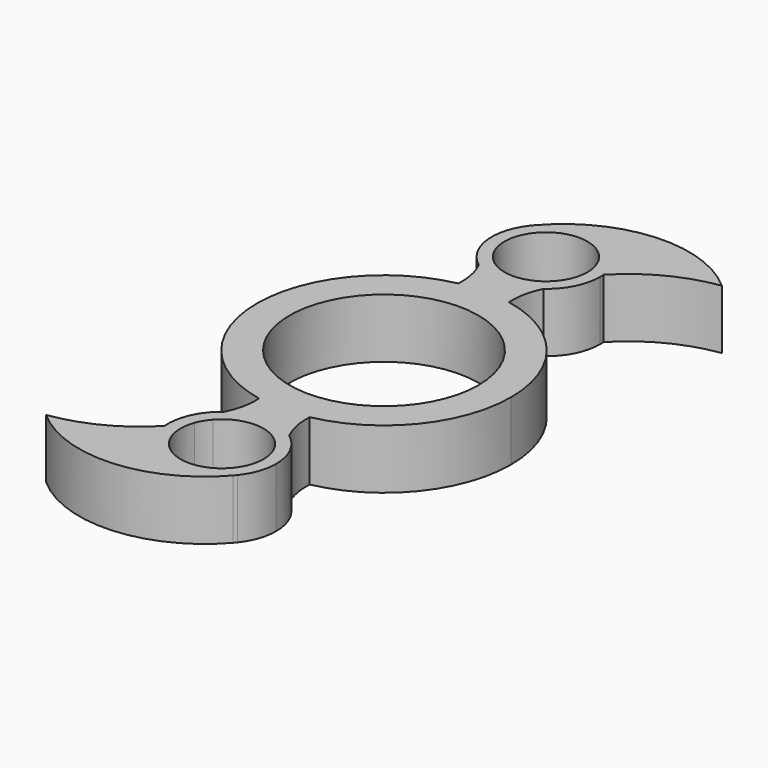
from build123d import *

# Parameters (mm, degrees)
F0_R     = 11.15
F1_DEPTH = 7


with BuildPart() as f1:
    # F0 (on Top) → F1 (new body)
    with BuildSketch(Plane.XY):
        with BuildLine():
            ThreePointArc((2.9876507344, -14.6994538364), (11.6149636464, -9.4917132011), (15, 0))
            ThreePointArc((15, 0), (11.6149636464, 9.4917132011), (2.9876507344, 14.6994538364))
            ThreePointArc((2.9876507344, 14.6994538364), (0, 15), (-2.9876507344, 14.6994538364))
            ThreePointArc((-2.9876507344, 14.6994538364), (-15, 0), (-2.9876507344, -14.6994538364))
            ThreePointArc((-2.9876507344, -14.6994538364), (0, -15), (2.9876507344, -14.6994538364))
        make_face()
        Circle(F0_R, mode=Mode.SUBTRACT)
        with BuildLine():
            ThreePointArc((-2.9876507344, 14.6994538364), (0, 15), (2.9876507344, 14.6994538364))
            ThreePointArc((2.9876507344, 14.6994538364), (3.1347863411, 16.7892463046), (3.8235944887, 18.7677368359))
            ThreePointArc((3.8235944887, 18.7677368359), (0, 17.5), (-3.8235944887, 18.7677368359))
            ThreePointArc((-3.8235944887, 18.7677368359), (-3.1347863411, 16.7892463046), (-2.9876507344, 14.6994538364))
        make_face()
        with BuildLine():
            ThreePointArc((-3.8235944887, 18.7677368359), (0, 17.5), (3.8235944887, 18.7677368359))
            ThreePointArc((3.8235944887, 18.7677368359), (5.7197467045, 21.0286766751), (6.4, 23.9))
            ThreePointArc((6.4, 23.9), (6.3946816035, 24.1608585632), (6.3787352531, 24.4212835797))
            ThreePointArc((6.3787352531, 24.4212835797), (2.0579890202, 29.9600892067), (-4.7421524338, 28.197905338))
            ThreePointArc((-4.7421524338, 28.197905338), (-4.8788151134, 28.0391092422), (-5.0132186413, 27.878396518))
            ThreePointArc((-5.0132186413, 27.878396518), (-6.3461284682, 23.0713544393), (-3.8235944887, 18.7677368359))
        make_face()
        with BuildLine():
            ThreePointArc((4.9, 23.9), (4.8241344212, 23.0410895937), (4.5988869037, 22.208775814))
            ThreePointArc((4.5988869037, 22.208775814), (4.2025705416, 21.3803966894), (3.6586515998, 20.6405110107))
            ThreePointArc((3.6586515998, 20.6405110107), (-4.5791589205, 25.6439333647), (4.9, 23.9))
        make_face(mode=Mode.SUBTRACT)
        with BuildLine():
            ThreePointArc((-4.7421524338, 28.197905338), (2.0579890202, 29.9600892067), (6.3787352531, 24.4212835797))
            ThreePointArc((6.3787352531, 24.4212835797), (10.8927246629, 27.8042901651), (16.2649862468, 29.5246504247))
            ThreePointArc((16.2649862468, 29.5246504247), (5.4848385896, 33.2405057508), (-4.7421524338, 28.197905338))
        make_face()
        with BuildLine():
            ThreePointArc((3.8235944887, -18.7677368359), (3.1347863411, -16.7892463046), (2.9876507344, -14.6994538364))
            ThreePointArc((2.9876507344, -14.6994538364), (0, -15), (-2.9876507344, -14.6994538364))
            ThreePointArc((-2.9876507344, -14.6994538364), (-3.1347863411, -16.7892463046), (-3.8235944887, -18.7677368359))
            ThreePointArc((-3.8235944887, -18.7677368359), (0, -17.5), (3.8235944887, -18.7677368359))
        make_face()
        with BuildLine():
            ThreePointArc((6.4, -23.9), (5.7197467045, -21.0286766751), (3.8235944887, -18.7677368359))
            ThreePointArc((3.8235944887, -18.7677368359), (0, -17.5), (-3.8235944887, -18.7677368359))
            ThreePointArc((-3.8235944887, -18.7677368359), (-5.8320262977, -21.26419476), (-6.3787352531, -24.4212835797))
            ThreePointArc((-6.3787352531, -24.4212835797), (-5.9524835867, -26.2511569811), (-5.0132186413, -27.878396518))
            ThreePointArc((-5.0132186413, -27.878396518), (-4.8788151134, -28.0391092422), (-4.7421524338, -28.197905338))
            ThreePointArc((-4.7421524338, -28.197905338), (0, -30.3), (4.7421524338, -28.197905338))
            ThreePointArc((4.7421524338, -28.197905338), (4.8788151134, -28.0391092422), (5.0132186413, -27.878396518))
            ThreePointArc((5.0132186413, -27.878396518), (6.0433682373, -26.0065849966), (6.4, -23.9))
        make_face()
        with BuildLine():
            ThreePointArc((4.9, -23.9), (-0.8589104063, -28.7241344212), (-4.5988869037, -22.208775814))
            ThreePointArc((-4.5988869037, -22.208775814), (-4.2025705416, -21.3803966894), (-3.6586515998, -20.6405110107))
            ThreePointArc((-3.6586515998, -20.6405110107), (0, -19), (3.6586515998, -20.6405110107))
            ThreePointArc((3.6586515998, -20.6405110107), (4.2025705416, -21.3803966894), (4.5988869037, -22.208775814))
            ThreePointArc((4.5988869037, -22.208775814), (4.8241344212, -23.0410895937), (4.9, -23.9))
        make_face(mode=Mode.SUBTRACT)
        with BuildLine():
            ThreePointArc((-5.0132186413, -27.878396518), (-5.9524835867, -26.2511569811), (-6.3787352531, -24.4212835797))
            ThreePointArc((-6.3787352531, -24.4212835797), (-10.8927246629, -27.8042901651), (-16.2649862468, -29.5246504247))
            ThreePointArc((-16.2649862468, -29.5246504247), (-5.4848385896, -33.2405057508), (4.7421524338, -28.197905338))
            ThreePointArc((4.7421524338, -28.197905338), (0, -30.3), (-4.7421524338, -28.197905338))
            ThreePointArc((-4.7421524338, -28.197905338), (-4.880300982, -28.0403698295), (-5.0132186413, -27.878396518))
        make_face()
    extrude(amount=F1_DEPTH)


solid = f1.part
